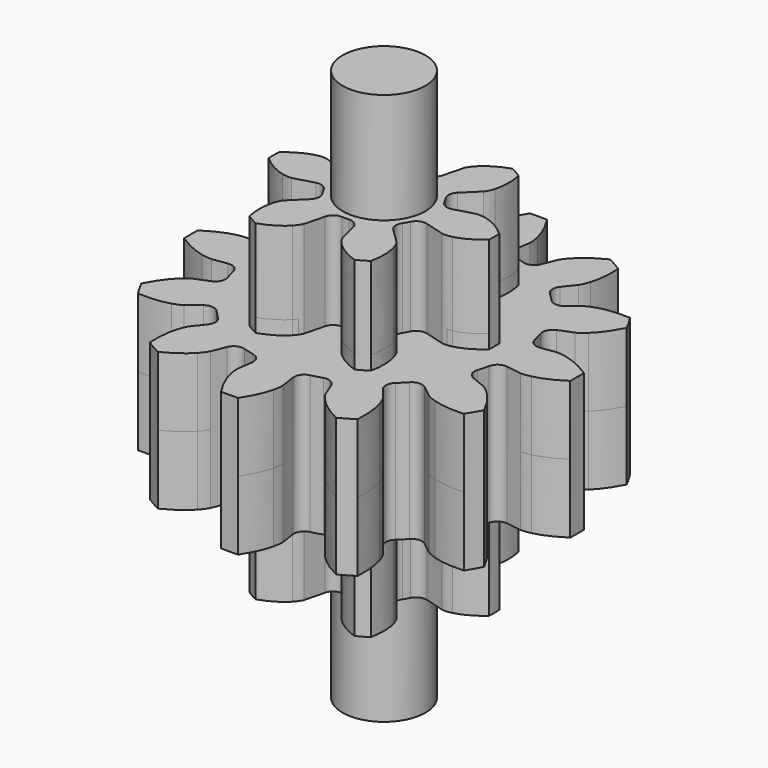
from build123d import *

# Parameters (mm, degrees)
PAD007_DEPTH  = 3
SKETCH016_W   = 3.079718
SKETCH016_H   = 3
SKETCH016_W_2 = 1
SKETCH016_H_2 = 10
PAD008_DEPTH  = 3
PAD009_DEPTH  = 1.25
SKETCH018_R   = 0.75
PAD010_DEPTH  = 5


with BuildPart() as part:
    # InvoluteGear001 → Pad007 (new body, symmetric)
    with BuildSketch(Plane.XY):
        with BuildLine():
            Line((1.006043, -0.285705), (1.363515, -0.38664))
            add(Edge.make_bspline(
                [(1.363515, -0.38664), (1.382622, -0.389981), (1.439701, -0.396093), (1.538721, -0.373445)],
                knots=[0, 0, 0, 0, 1, 1, 1, 1], degree=3))
            add(Edge.make_bspline(
                [(1.538721, -0.373445), (1.655028, -0.34513), (1.816791, -0.276694), (1.997727, -0.116892)],
                knots=[0, 0, 0, 0, 1, 1, 1, 1], degree=3))
            ThreePointArc((1.997727, -0.116892), (2.001146, 0), (1.997727, 0.116892))
            add(Edge.make_bspline(
                [(1.997727, 0.116892), (1.816791, 0.276694), (1.655028, 0.34513), (1.538721, 0.373445)],
                knots=[0, 0, 0, 0, 1, 1, 1, 1], degree=3))
            add(Edge.make_bspline(
                [(1.538721, 0.373445), (1.439701, 0.396093), (1.382622, 0.389981), (1.363515, 0.38664)],
                knots=[0, 0, 0, 0, 1, 1, 1, 1], degree=3))
            Line((1.363515, 0.38664), (1.006043, 0.285705))
            ThreePointArc((1.006043, 0.285705), (0.87945, 0.294376), (0.787367, 0.381679))
            ThreePointArc((0.787367, 0.381679), (0.757772, 0.4375), (0.724227, 0.49104))
            ThreePointArc((0.724227, 0.49104), (0.694661, 0.614438), (0.750449, 0.728406))
            Line((0.750449, 0.728406), (1.016597, 0.987519))
            add(Edge.make_bspline(
                [(1.016597, 0.987519), (1.029044, 1.002395), (1.062877, 1.048771), (1.092773, 1.145849)],
                knots=[0, 0, 0, 0, 1, 1, 1, 1], degree=3))
            add(Edge.make_bspline(
                [(1.092773, 1.145849), (1.126405, 1.260731), (1.148019, 1.43504), (1.100095, 1.671636)],
                knots=[0, 0, 0, 0, 1, 1, 1, 1], degree=3))
            ThreePointArc((1.100095, 1.671636), (1.000573, 1.733043), (0.897632, 1.788529))
            add(Edge.make_bspline(
                [(0.897632, 1.788529), (0.668772, 1.711734), (0.528623, 1.605861), (0.445948, 1.519294)],
                knots=[0, 0, 0, 0, 1, 1, 1, 1], degree=3))
            add(Edge.make_bspline(
                [(0.445948, 1.519294), (0.376823, 1.444864), (0.353577, 1.392376), (0.346918, 1.374158)],
                knots=[0, 0, 0, 0, 1, 1, 1, 1], degree=3))
            Line((0.346918, 1.374158), (0.255594, 1.014111))
            ThreePointArc((0.255594, 1.014111), (0.184788, 0.908813), (0.06314, 0.872719))
            ThreePointArc((0.06314, 0.872719), (0, 0.875), (-0.06314, 0.872719))
            ThreePointArc((-0.06314, 0.872719), (-0.184788, 0.908813), (-0.255594, 1.014111))
            Line((-0.255594, 1.014111), (-0.346918, 1.374158))
            add(Edge.make_bspline(
                [(-0.346918, 1.374158), (-0.353577, 1.392376), (-0.376823, 1.444864), (-0.445948, 1.519294)],
                knots=[0, 0, 0, 0, 1, 1, 1, 1], degree=3))
            add(Edge.make_bspline(
                [(-0.445948, 1.519294), (-0.528623, 1.605861), (-0.668772, 1.711734), (-0.897632, 1.788529)],
                knots=[0, 0, 0, 0, 1, 1, 1, 1], degree=3))
            ThreePointArc((-0.897632, 1.788529), (-1.000573, 1.733043), (-1.100095, 1.671636))
            add(Edge.make_bspline(
                [(-1.100095, 1.671636), (-1.148019, 1.43504), (-1.126405, 1.260731), (-1.092773, 1.145849)],
                knots=[0, 0, 0, 0, 1, 1, 1, 1], degree=3))
            add(Edge.make_bspline(
                [(-1.092773, 1.145849), (-1.062877, 1.048771), (-1.029044, 1.002395), (-1.016597, 0.987519)],
                knots=[0, 0, 0, 0, 1, 1, 1, 1], degree=3))
            Line((-1.016597, 0.987519), (-0.750449, 0.728406))
            ThreePointArc((-0.750449, 0.728406), (-0.694661, 0.614438), (-0.724227, 0.49104))
            ThreePointArc((-0.724227, 0.49104), (-0.757772, 0.4375), (-0.787367, 0.381679))
            ThreePointArc((-0.787367, 0.381679), (-0.87945, 0.294376), (-1.006043, 0.285705))
            Line((-1.006043, 0.285705), (-1.363515, 0.38664))
            add(Edge.make_bspline(
                [(-1.363515, 0.38664), (-1.382622, 0.389981), (-1.439701, 0.396093), (-1.538721, 0.373445)],
                knots=[0, 0, 0, 0, 1, 1, 1, 1], degree=3))
            add(Edge.make_bspline(
                [(-1.538721, 0.373445), (-1.655028, 0.34513), (-1.816791, 0.276694), (-1.997727, 0.116892)],
                knots=[0, 0, 0, 0, 1, 1, 1, 1], degree=3))
            ThreePointArc((-1.997727, 0.116892), (-2.001146, 0), (-1.997727, -0.116892))
            add(Edge.make_bspline(
                [(-1.997727, -0.116892), (-1.816791, -0.276694), (-1.655028, -0.34513), (-1.538721, -0.373445)],
                knots=[0, 0, 0, 0, 1, 1, 1, 1], degree=3))
            add(Edge.make_bspline(
                [(-1.538721, -0.373445), (-1.439701, -0.396093), (-1.382622, -0.389981), (-1.363515, -0.38664)],
                knots=[0, 0, 0, 0, 1, 1, 1, 1], degree=3))
            Line((-1.363515, -0.38664), (-1.006043, -0.285705))
            ThreePointArc((-1.006043, -0.285705), (-0.87945, -0.294376), (-0.787367, -0.381679))
            ThreePointArc((-0.787367, -0.381679), (-0.757772, -0.4375), (-0.724227, -0.49104))
            ThreePointArc((-0.724227, -0.49104), (-0.694661, -0.614438), (-0.750449, -0.728406))
            Line((-0.750449, -0.728406), (-1.016597, -0.987519))
            add(Edge.make_bspline(
                [(-1.016597, -0.987519), (-1.029044, -1.002395), (-1.062877, -1.048771), (-1.092773, -1.145849)],
                knots=[0, 0, 0, 0, 1, 1, 1, 1], degree=3))
            add(Edge.make_bspline(
                [(-1.092773, -1.145849), (-1.126405, -1.260731), (-1.148019, -1.43504), (-1.100095, -1.671636)],
                knots=[0, 0, 0, 0, 1, 1, 1, 1], degree=3))
            ThreePointArc((-1.100095, -1.671636), (-1.000573, -1.733043), (-0.897632, -1.788529))
            add(Edge.make_bspline(
                [(-0.897632, -1.788529), (-0.668772, -1.711734), (-0.528623, -1.605861), (-0.445948, -1.519294)],
                knots=[0, 0, 0, 0, 1, 1, 1, 1], degree=3))
            add(Edge.make_bspline(
                [(-0.445948, -1.519294), (-0.376823, -1.444864), (-0.353577, -1.392376), (-0.346918, -1.374158)],
                knots=[0, 0, 0, 0, 1, 1, 1, 1], degree=3))
            Line((-0.346918, -1.374158), (-0.255594, -1.014111))
            ThreePointArc((-0.255594, -1.014111), (-0.184788, -0.908813), (-0.06314, -0.872719))
            ThreePointArc((-0.06314, -0.872719), (0, -0.875), (0.06314, -0.872719))
            ThreePointArc((0.06314, -0.872719), (0.184788, -0.908813), (0.255594, -1.014111))
            Line((0.255594, -1.014111), (0.346918, -1.374158))
            add(Edge.make_bspline(
                [(0.346918, -1.374158), (0.353577, -1.392376), (0.376823, -1.444864), (0.445948, -1.519294)],
                knots=[0, 0, 0, 0, 1, 1, 1, 1], degree=3))
            add(Edge.make_bspline(
                [(0.445948, -1.519294), (0.528623, -1.605861), (0.668772, -1.711734), (0.897632, -1.788529)],
                knots=[0, 0, 0, 0, 1, 1, 1, 1], degree=3))
            ThreePointArc((0.897632, -1.788529), (1.000573, -1.733043), (1.100095, -1.671636))
            add(Edge.make_bspline(
                [(1.100095, -1.671636), (1.148019, -1.43504), (1.126405, -1.260731), (1.092773, -1.145849)],
                knots=[0, 0, 0, 0, 1, 1, 1, 1], degree=3))
            add(Edge.make_bspline(
                [(1.092773, -1.145849), (1.062877, -1.048771), (1.029044, -1.002395), (1.016597, -0.987519)],
                knots=[0, 0, 0, 0, 1, 1, 1, 1], degree=3))
            Line((1.016597, -0.987519), (0.750449, -0.728406))
            ThreePointArc((0.750449, -0.728406), (0.694661, -0.614438), (0.724227, -0.49104))
            ThreePointArc((0.724227, -0.49104), (0.757772, -0.4375), (0.787367, -0.381679))
            ThreePointArc((0.787367, -0.381679), (0.87945, -0.294376), (1.006043, -0.285705))
        make_face()
    extrude(amount=PAD007_DEPTH, both=True)

    # Sketch016 → Groove002 (revolve, cut)
    with BuildSketch(Plane.XZ):
        with Locations((-3.039859, 0)):
            Rectangle(SKETCH016_W, SKETCH016_H)
        with Locations((-0.5, 0)):
            Rectangle(SKETCH016_W_2, SKETCH016_H_2)
    revolve(axis=Axis((0, 0, 0), (0, 0, 1)), mode=Mode.SUBTRACT)

    # InvoluteGear001 → Pad008 (join, symmetric)
    with BuildSketch(Plane.XY):
        with BuildLine():
            Line((1.006043, -0.285705), (1.363515, -0.38664))
            add(Edge.make_bspline(
                [(1.363515, -0.38664), (1.382622, -0.389981), (1.439701, -0.396093), (1.538721, -0.373445)],
                knots=[0, 0, 0, 0, 1, 1, 1, 1], degree=3))
            add(Edge.make_bspline(
                [(1.538721, -0.373445), (1.655028, -0.34513), (1.816791, -0.276694), (1.997727, -0.116892)],
                knots=[0, 0, 0, 0, 1, 1, 1, 1], degree=3))
            ThreePointArc((1.997727, -0.116892), (2.001146, 0), (1.997727, 0.116892))
            add(Edge.make_bspline(
                [(1.997727, 0.116892), (1.816791, 0.276694), (1.655028, 0.34513), (1.538721, 0.373445)],
                knots=[0, 0, 0, 0, 1, 1, 1, 1], degree=3))
            add(Edge.make_bspline(
                [(1.538721, 0.373445), (1.439701, 0.396093), (1.382622, 0.389981), (1.363515, 0.38664)],
                knots=[0, 0, 0, 0, 1, 1, 1, 1], degree=3))
            Line((1.363515, 0.38664), (1.006043, 0.285705))
            ThreePointArc((1.006043, 0.285705), (0.87945, 0.294376), (0.787367, 0.381679))
            ThreePointArc((0.787367, 0.381679), (0.757772, 0.4375), (0.724227, 0.49104))
            ThreePointArc((0.724227, 0.49104), (0.694661, 0.614438), (0.750449, 0.728406))
            Line((0.750449, 0.728406), (1.016597, 0.987519))
            add(Edge.make_bspline(
                [(1.016597, 0.987519), (1.029044, 1.002395), (1.062877, 1.048771), (1.092773, 1.145849)],
                knots=[0, 0, 0, 0, 1, 1, 1, 1], degree=3))
            add(Edge.make_bspline(
                [(1.092773, 1.145849), (1.126405, 1.260731), (1.148019, 1.43504), (1.100095, 1.671636)],
                knots=[0, 0, 0, 0, 1, 1, 1, 1], degree=3))
            ThreePointArc((1.100095, 1.671636), (1.000573, 1.733043), (0.897632, 1.788529))
            add(Edge.make_bspline(
                [(0.897632, 1.788529), (0.668772, 1.711734), (0.528623, 1.605861), (0.445948, 1.519294)],
                knots=[0, 0, 0, 0, 1, 1, 1, 1], degree=3))
            add(Edge.make_bspline(
                [(0.445948, 1.519294), (0.376823, 1.444864), (0.353577, 1.392376), (0.346918, 1.374158)],
                knots=[0, 0, 0, 0, 1, 1, 1, 1], degree=3))
            Line((0.346918, 1.374158), (0.255594, 1.014111))
            ThreePointArc((0.255594, 1.014111), (0.184788, 0.908813), (0.06314, 0.872719))
            ThreePointArc((0.06314, 0.872719), (0, 0.875), (-0.06314, 0.872719))
            ThreePointArc((-0.06314, 0.872719), (-0.184788, 0.908813), (-0.255594, 1.014111))
            Line((-0.255594, 1.014111), (-0.346918, 1.374158))
            add(Edge.make_bspline(
                [(-0.346918, 1.374158), (-0.353577, 1.392376), (-0.376823, 1.444864), (-0.445948, 1.519294)],
                knots=[0, 0, 0, 0, 1, 1, 1, 1], degree=3))
            add(Edge.make_bspline(
                [(-0.445948, 1.519294), (-0.528623, 1.605861), (-0.668772, 1.711734), (-0.897632, 1.788529)],
                knots=[0, 0, 0, 0, 1, 1, 1, 1], degree=3))
            ThreePointArc((-0.897632, 1.788529), (-1.000573, 1.733043), (-1.100095, 1.671636))
            add(Edge.make_bspline(
                [(-1.100095, 1.671636), (-1.148019, 1.43504), (-1.126405, 1.260731), (-1.092773, 1.145849)],
                knots=[0, 0, 0, 0, 1, 1, 1, 1], degree=3))
            add(Edge.make_bspline(
                [(-1.092773, 1.145849), (-1.062877, 1.048771), (-1.029044, 1.002395), (-1.016597, 0.987519)],
                knots=[0, 0, 0, 0, 1, 1, 1, 1], degree=3))
            Line((-1.016597, 0.987519), (-0.750449, 0.728406))
            ThreePointArc((-0.750449, 0.728406), (-0.694661, 0.614438), (-0.724227, 0.49104))
            ThreePointArc((-0.724227, 0.49104), (-0.757772, 0.4375), (-0.787367, 0.381679))
            ThreePointArc((-0.787367, 0.381679), (-0.87945, 0.294376), (-1.006043, 0.285705))
            Line((-1.006043, 0.285705), (-1.363515, 0.38664))
            add(Edge.make_bspline(
                [(-1.363515, 0.38664), (-1.382622, 0.389981), (-1.439701, 0.396093), (-1.538721, 0.373445)],
                knots=[0, 0, 0, 0, 1, 1, 1, 1], degree=3))
            add(Edge.make_bspline(
                [(-1.538721, 0.373445), (-1.655028, 0.34513), (-1.816791, 0.276694), (-1.997727, 0.116892)],
                knots=[0, 0, 0, 0, 1, 1, 1, 1], degree=3))
            ThreePointArc((-1.997727, 0.116892), (-2.001146, 0), (-1.997727, -0.116892))
            add(Edge.make_bspline(
                [(-1.997727, -0.116892), (-1.816791, -0.276694), (-1.655028, -0.34513), (-1.538721, -0.373445)],
                knots=[0, 0, 0, 0, 1, 1, 1, 1], degree=3))
            add(Edge.make_bspline(
                [(-1.538721, -0.373445), (-1.439701, -0.396093), (-1.382622, -0.389981), (-1.363515, -0.38664)],
                knots=[0, 0, 0, 0, 1, 1, 1, 1], degree=3))
            Line((-1.363515, -0.38664), (-1.006043, -0.285705))
            ThreePointArc((-1.006043, -0.285705), (-0.87945, -0.294376), (-0.787367, -0.381679))
            ThreePointArc((-0.787367, -0.381679), (-0.757772, -0.4375), (-0.724227, -0.49104))
            ThreePointArc((-0.724227, -0.49104), (-0.694661, -0.614438), (-0.750449, -0.728406))
            Line((-0.750449, -0.728406), (-1.016597, -0.987519))
            add(Edge.make_bspline(
                [(-1.016597, -0.987519), (-1.029044, -1.002395), (-1.062877, -1.048771), (-1.092773, -1.145849)],
                knots=[0, 0, 0, 0, 1, 1, 1, 1], degree=3))
            add(Edge.make_bspline(
                [(-1.092773, -1.145849), (-1.126405, -1.260731), (-1.148019, -1.43504), (-1.100095, -1.671636)],
                knots=[0, 0, 0, 0, 1, 1, 1, 1], degree=3))
            ThreePointArc((-1.100095, -1.671636), (-1.000573, -1.733043), (-0.897632, -1.788529))
            add(Edge.make_bspline(
                [(-0.897632, -1.788529), (-0.668772, -1.711734), (-0.528623, -1.605861), (-0.445948, -1.519294)],
                knots=[0, 0, 0, 0, 1, 1, 1, 1], degree=3))
            add(Edge.make_bspline(
                [(-0.445948, -1.519294), (-0.376823, -1.444864), (-0.353577, -1.392376), (-0.346918, -1.374158)],
                knots=[0, 0, 0, 0, 1, 1, 1, 1], degree=3))
            Line((-0.346918, -1.374158), (-0.255594, -1.014111))
            ThreePointArc((-0.255594, -1.014111), (-0.184788, -0.908813), (-0.06314, -0.872719))
            ThreePointArc((-0.06314, -0.872719), (0, -0.875), (0.06314, -0.872719))
            ThreePointArc((0.06314, -0.872719), (0.184788, -0.908813), (0.255594, -1.014111))
            Line((0.255594, -1.014111), (0.346918, -1.374158))
            add(Edge.make_bspline(
                [(0.346918, -1.374158), (0.353577, -1.392376), (0.376823, -1.444864), (0.445948, -1.519294)],
                knots=[0, 0, 0, 0, 1, 1, 1, 1], degree=3))
            add(Edge.make_bspline(
                [(0.445948, -1.519294), (0.528623, -1.605861), (0.668772, -1.711734), (0.897632, -1.788529)],
                knots=[0, 0, 0, 0, 1, 1, 1, 1], degree=3))
            ThreePointArc((0.897632, -1.788529), (1.000573, -1.733043), (1.100095, -1.671636))
            add(Edge.make_bspline(
                [(1.100095, -1.671636), (1.148019, -1.43504), (1.126405, -1.260731), (1.092773, -1.145849)],
                knots=[0, 0, 0, 0, 1, 1, 1, 1], degree=3))
            add(Edge.make_bspline(
                [(1.092773, -1.145849), (1.062877, -1.048771), (1.029044, -1.002395), (1.016597, -0.987519)],
                knots=[0, 0, 0, 0, 1, 1, 1, 1], degree=3))
            Line((1.016597, -0.987519), (0.750449, -0.728406))
            ThreePointArc((0.750449, -0.728406), (0.694661, -0.614438), (0.724227, -0.49104))
            ThreePointArc((0.724227, -0.49104), (0.757772, -0.4375), (0.787367, -0.381679))
            ThreePointArc((0.787367, -0.381679), (0.87945, -0.294376), (1.006043, -0.285705))
        make_face()
    extrude(amount=PAD008_DEPTH, both=True)

    # InvoluteGear002 → Pad009 (join, symmetric)
    with BuildSketch(Plane.XY):
        with BuildLine():
            Line((2.528514, -0.371303), (2.797114, -0.410332))
            add(Edge.make_bspline(
                [(2.797114, -0.410332), (2.817791, -0.411804), (2.879869, -0.41318), (2.984231, -0.389418)],
                knots=[0, 0, 0, 0, 1, 1, 1, 1], degree=3))
            add(Edge.make_bspline(
                [(2.984231, -0.389418), (3.108457, -0.360405), (3.285345, -0.29598), (3.497257, -0.154878)],
                knots=[0, 0, 0, 0, 1, 1, 1, 1], degree=3))
            ThreePointArc((3.497257, -0.154878), (3.500685, 0), (3.497257, 0.154878))
            add(Edge.make_bspline(
                [(3.497257, 0.154878), (3.285345, 0.29598), (3.108457, 0.360405), (2.984231, 0.389418)],
                knots=[0, 0, 0, 0, 1, 1, 1, 1], degree=3))
            add(Edge.make_bspline(
                [(2.984231, 0.389418), (2.879869, 0.41318), (2.817791, 0.411804), (2.797114, 0.410332)],
                knots=[0, 0, 0, 0, 1, 1, 1, 1], degree=3))
            Line((2.797114, 0.410332), (2.528514, 0.371303))
            ThreePointArc((2.528514, 0.371303), (2.395133, 0.402247), (2.318354, 0.515617))
            ThreePointArc((2.318354, 0.515617), (2.294074, 0.614695), (2.265562, 0.712639))
            ThreePointArc((2.265562, 0.712639), (2.27537, 0.849211), (2.375409, 0.9427))
            Line((2.375409, 0.9427), (2.627538, 1.043199))
            add(Edge.make_bspline(
                [(2.627538, 1.043199), (2.646181, 1.052262), (2.700629, 1.08211), (2.779129, 1.154869)],
                knots=[0, 0, 0, 0, 1, 1, 1, 1], degree=3))
            add(Edge.make_bspline(
                [(2.779129, 1.154869), (2.872205, 1.242109), (2.993182, 1.386346), (3.106152, 1.6145)],
                knots=[0, 0, 0, 0, 1, 1, 1, 1], degree=3))
            ThreePointArc((3.106152, 1.6145), (3.031682, 1.750343), (2.951274, 1.882757))
            add(Edge.make_bspline(
                [(2.951274, 1.882757), (2.697202, 1.898999), (2.5118, 1.866348), (2.389711, 1.829362)],
                knots=[0, 0, 0, 0, 1, 1, 1, 1], degree=3))
            add(Edge.make_bspline(
                [(2.389711, 1.829362), (2.28745, 1.797759), (2.234376, 1.765528), (2.217206, 1.753915)],
                knots=[0, 0, 0, 0, 1, 1, 1, 1], degree=3))
            Line((2.217206, 1.753915), (2.004106, 1.585815))
            ThreePointArc((2.004106, 1.585815), (1.873123, 1.545922), (1.749945, 1.605714))
            ThreePointArc((1.749945, 1.605714), (1.679379, 1.679379), (1.605714, 1.749945))
            ThreePointArc((1.605714, 1.749945), (1.545922, 1.873123), (1.585815, 2.004106))
            Line((1.585815, 2.004106), (1.753915, 2.217206))
            add(Edge.make_bspline(
                [(1.753915, 2.217206), (1.765528, 2.234376), (1.797759, 2.28745), (1.829362, 2.389711)],
                knots=[0, 0, 0, 0, 1, 1, 1, 1], degree=3))
            add(Edge.make_bspline(
                [(1.829362, 2.389711), (1.866348, 2.5118), (1.898999, 2.697202), (1.882757, 2.951274)],
                knots=[0, 0, 0, 0, 1, 1, 1, 1], degree=3))
            ThreePointArc((1.882757, 2.951274), (1.750343, 3.031682), (1.6145, 3.106152))
            add(Edge.make_bspline(
                [(1.6145, 3.106152), (1.386346, 2.993182), (1.242109, 2.872205), (1.154869, 2.779129)],
                knots=[0, 0, 0, 0, 1, 1, 1, 1], degree=3))
            add(Edge.make_bspline(
                [(1.154869, 2.779129), (1.08211, 2.700629), (1.052262, 2.646181), (1.043199, 2.627538)],
                knots=[0, 0, 0, 0, 1, 1, 1, 1], degree=3))
            Line((1.043199, 2.627538), (0.9427, 2.375409))
            ThreePointArc((0.9427, 2.375409), (0.849211, 2.27537), (0.712639, 2.265562))
            ThreePointArc((0.712639, 2.265562), (0.614695, 2.294074), (0.515617, 2.318354))
            ThreePointArc((0.515617, 2.318354), (0.402247, 2.395133), (0.371303, 2.528514))
            Line((0.371303, 2.528514), (0.410332, 2.797114))
            add(Edge.make_bspline(
                [(0.410332, 2.797114), (0.411804, 2.817791), (0.41318, 2.879869), (0.389418, 2.984231)],
                knots=[0, 0, 0, 0, 1, 1, 1, 1], degree=3))
            add(Edge.make_bspline(
                [(0.389418, 2.984231), (0.360405, 3.108457), (0.29598, 3.285345), (0.154878, 3.497257)],
                knots=[0, 0, 0, 0, 1, 1, 1, 1], degree=3))
            ThreePointArc((0.154878, 3.497257), (0, 3.500685), (-0.154878, 3.497257))
            add(Edge.make_bspline(
                [(-0.154878, 3.497257), (-0.29598, 3.285345), (-0.360405, 3.108457), (-0.389418, 2.984231)],
                knots=[0, 0, 0, 0, 1, 1, 1, 1], degree=3))
            add(Edge.make_bspline(
                [(-0.389418, 2.984231), (-0.41318, 2.879869), (-0.411804, 2.817791), (-0.410332, 2.797114)],
                knots=[0, 0, 0, 0, 1, 1, 1, 1], degree=3))
            Line((-0.410332, 2.797114), (-0.371303, 2.528514))
            ThreePointArc((-0.371303, 2.528514), (-0.402247, 2.395133), (-0.515617, 2.318354))
            ThreePointArc((-0.515617, 2.318354), (-0.614695, 2.294074), (-0.712639, 2.265562))
            ThreePointArc((-0.712639, 2.265562), (-0.849211, 2.27537), (-0.9427, 2.375409))
            Line((-0.9427, 2.375409), (-1.043199, 2.627538))
            add(Edge.make_bspline(
                [(-1.043199, 2.627538), (-1.052262, 2.646181), (-1.08211, 2.700629), (-1.154869, 2.779129)],
                knots=[0, 0, 0, 0, 1, 1, 1, 1], degree=3))
            add(Edge.make_bspline(
                [(-1.154869, 2.779129), (-1.242109, 2.872205), (-1.386346, 2.993182), (-1.6145, 3.106152)],
                knots=[0, 0, 0, 0, 1, 1, 1, 1], degree=3))
            ThreePointArc((-1.6145, 3.106152), (-1.750343, 3.031682), (-1.882757, 2.951274))
            add(Edge.make_bspline(
                [(-1.882757, 2.951274), (-1.898999, 2.697202), (-1.866348, 2.5118), (-1.829362, 2.389711)],
                knots=[0, 0, 0, 0, 1, 1, 1, 1], degree=3))
            add(Edge.make_bspline(
                [(-1.829362, 2.389711), (-1.797759, 2.28745), (-1.765528, 2.234376), (-1.753915, 2.217206)],
                knots=[0, 0, 0, 0, 1, 1, 1, 1], degree=3))
            Line((-1.753915, 2.217206), (-1.585815, 2.004106))
            ThreePointArc((-1.585815, 2.004106), (-1.545922, 1.873123), (-1.605714, 1.749945))
            ThreePointArc((-1.605714, 1.749945), (-1.679379, 1.679379), (-1.749945, 1.605714))
            ThreePointArc((-1.749945, 1.605714), (-1.873123, 1.545922), (-2.004106, 1.585815))
            Line((-2.004106, 1.585815), (-2.217206, 1.753915))
            add(Edge.make_bspline(
                [(-2.217206, 1.753915), (-2.234376, 1.765528), (-2.28745, 1.797759), (-2.389711, 1.829362)],
                knots=[0, 0, 0, 0, 1, 1, 1, 1], degree=3))
            add(Edge.make_bspline(
                [(-2.389711, 1.829362), (-2.5118, 1.866348), (-2.697202, 1.898999), (-2.951274, 1.882757)],
                knots=[0, 0, 0, 0, 1, 1, 1, 1], degree=3))
            ThreePointArc((-2.951274, 1.882757), (-3.031682, 1.750343), (-3.106152, 1.6145))
            add(Edge.make_bspline(
                [(-3.106152, 1.6145), (-2.993182, 1.386346), (-2.872205, 1.242109), (-2.779129, 1.154869)],
                knots=[0, 0, 0, 0, 1, 1, 1, 1], degree=3))
            add(Edge.make_bspline(
                [(-2.779129, 1.154869), (-2.700629, 1.08211), (-2.646181, 1.052262), (-2.627538, 1.043199)],
                knots=[0, 0, 0, 0, 1, 1, 1, 1], degree=3))
            Line((-2.627538, 1.043199), (-2.375409, 0.9427))
            ThreePointArc((-2.375409, 0.9427), (-2.27537, 0.849211), (-2.265562, 0.712639))
            ThreePointArc((-2.265562, 0.712639), (-2.294074, 0.614695), (-2.318354, 0.515617))
            ThreePointArc((-2.318354, 0.515617), (-2.395133, 0.402247), (-2.528514, 0.371303))
            Line((-2.528514, 0.371303), (-2.797114, 0.410332))
            add(Edge.make_bspline(
                [(-2.797114, 0.410332), (-2.817791, 0.411804), (-2.879869, 0.41318), (-2.984231, 0.389418)],
                knots=[0, 0, 0, 0, 1, 1, 1, 1], degree=3))
            add(Edge.make_bspline(
                [(-2.984231, 0.389418), (-3.108457, 0.360405), (-3.285345, 0.29598), (-3.497257, 0.154878)],
                knots=[0, 0, 0, 0, 1, 1, 1, 1], degree=3))
            ThreePointArc((-3.497257, 0.154878), (-3.500685, 0), (-3.497257, -0.154878))
            add(Edge.make_bspline(
                [(-3.497257, -0.154878), (-3.285345, -0.29598), (-3.108457, -0.360405), (-2.984231, -0.389418)],
                knots=[0, 0, 0, 0, 1, 1, 1, 1], degree=3))
            add(Edge.make_bspline(
                [(-2.984231, -0.389418), (-2.879869, -0.41318), (-2.817791, -0.411804), (-2.797114, -0.410332)],
                knots=[0, 0, 0, 0, 1, 1, 1, 1], degree=3))
            Line((-2.797114, -0.410332), (-2.528514, -0.371303))
            ThreePointArc((-2.528514, -0.371303), (-2.395133, -0.402247), (-2.318354, -0.515617))
            ThreePointArc((-2.318354, -0.515617), (-2.294074, -0.614695), (-2.265562, -0.712639))
            ThreePointArc((-2.265562, -0.712639), (-2.27537, -0.849211), (-2.375409, -0.9427))
            Line((-2.375409, -0.9427), (-2.627538, -1.043199))
            add(Edge.make_bspline(
                [(-2.627538, -1.043199), (-2.646181, -1.052262), (-2.700629, -1.08211), (-2.779129, -1.154869)],
                knots=[0, 0, 0, 0, 1, 1, 1, 1], degree=3))
            add(Edge.make_bspline(
                [(-2.779129, -1.154869), (-2.872205, -1.242109), (-2.993182, -1.386346), (-3.106152, -1.6145)],
                knots=[0, 0, 0, 0, 1, 1, 1, 1], degree=3))
            ThreePointArc((-3.106152, -1.6145), (-3.031682, -1.750343), (-2.951274, -1.882757))
            add(Edge.make_bspline(
                [(-2.951274, -1.882757), (-2.697202, -1.898999), (-2.5118, -1.866348), (-2.389711, -1.829362)],
                knots=[0, 0, 0, 0, 1, 1, 1, 1], degree=3))
            add(Edge.make_bspline(
                [(-2.389711, -1.829362), (-2.28745, -1.797759), (-2.234376, -1.765528), (-2.217206, -1.753915)],
                knots=[0, 0, 0, 0, 1, 1, 1, 1], degree=3))
            Line((-2.217206, -1.753915), (-2.004106, -1.585815))
            ThreePointArc((-2.004106, -1.585815), (-1.873123, -1.545922), (-1.749945, -1.605714))
            ThreePointArc((-1.749945, -1.605714), (-1.679379, -1.679379), (-1.605714, -1.749945))
            ThreePointArc((-1.605714, -1.749945), (-1.545922, -1.873123), (-1.585815, -2.004106))
            Line((-1.585815, -2.004106), (-1.753915, -2.217206))
            add(Edge.make_bspline(
                [(-1.753915, -2.217206), (-1.765528, -2.234376), (-1.797759, -2.28745), (-1.829362, -2.389711)],
                knots=[0, 0, 0, 0, 1, 1, 1, 1], degree=3))
            add(Edge.make_bspline(
                [(-1.829362, -2.389711), (-1.866348, -2.5118), (-1.898999, -2.697202), (-1.882757, -2.951274)],
                knots=[0, 0, 0, 0, 1, 1, 1, 1], degree=3))
            ThreePointArc((-1.882757, -2.951274), (-1.750343, -3.031682), (-1.6145, -3.106152))
            add(Edge.make_bspline(
                [(-1.6145, -3.106152), (-1.386346, -2.993182), (-1.242109, -2.872205), (-1.154869, -2.779129)],
                knots=[0, 0, 0, 0, 1, 1, 1, 1], degree=3))
            add(Edge.make_bspline(
                [(-1.154869, -2.779129), (-1.08211, -2.700629), (-1.052262, -2.646181), (-1.043199, -2.627538)],
                knots=[0, 0, 0, 0, 1, 1, 1, 1], degree=3))
            Line((-1.043199, -2.627538), (-0.9427, -2.375409))
            ThreePointArc((-0.9427, -2.375409), (-0.849211, -2.27537), (-0.712639, -2.265562))
            ThreePointArc((-0.712639, -2.265562), (-0.614695, -2.294074), (-0.515617, -2.318354))
            ThreePointArc((-0.515617, -2.318354), (-0.402247, -2.395133), (-0.371303, -2.528514))
            Line((-0.371303, -2.528514), (-0.410332, -2.797114))
            add(Edge.make_bspline(
                [(-0.410332, -2.797114), (-0.411804, -2.817791), (-0.41318, -2.879869), (-0.389418, -2.984231)],
                knots=[0, 0, 0, 0, 1, 1, 1, 1], degree=3))
            add(Edge.make_bspline(
                [(-0.389418, -2.984231), (-0.360405, -3.108457), (-0.29598, -3.285345), (-0.154878, -3.497257)],
                knots=[0, 0, 0, 0, 1, 1, 1, 1], degree=3))
            ThreePointArc((-0.154878, -3.497257), (0, -3.500685), (0.154878, -3.497257))
            add(Edge.make_bspline(
                [(0.154878, -3.497257), (0.29598, -3.285345), (0.360405, -3.108457), (0.389418, -2.984231)],
                knots=[0, 0, 0, 0, 1, 1, 1, 1], degree=3))
            add(Edge.make_bspline(
                [(0.389418, -2.984231), (0.41318, -2.879869), (0.411804, -2.817791), (0.410332, -2.797114)],
                knots=[0, 0, 0, 0, 1, 1, 1, 1], degree=3))
            Line((0.410332, -2.797114), (0.371303, -2.528514))
            ThreePointArc((0.371303, -2.528514), (0.402247, -2.395133), (0.515617, -2.318354))
            ThreePointArc((0.515617, -2.318354), (0.614695, -2.294074), (0.712639, -2.265562))
            ThreePointArc((0.712639, -2.265562), (0.849211, -2.27537), (0.9427, -2.375409))
            Line((0.9427, -2.375409), (1.043199, -2.627538))
            add(Edge.make_bspline(
                [(1.043199, -2.627538), (1.052262, -2.646181), (1.08211, -2.700629), (1.154869, -2.779129)],
                knots=[0, 0, 0, 0, 1, 1, 1, 1], degree=3))
            add(Edge.make_bspline(
                [(1.154869, -2.779129), (1.242109, -2.872205), (1.386346, -2.993182), (1.6145, -3.106152)],
                knots=[0, 0, 0, 0, 1, 1, 1, 1], degree=3))
            ThreePointArc((1.6145, -3.106152), (1.750343, -3.031682), (1.882757, -2.951274))
            add(Edge.make_bspline(
                [(1.882757, -2.951274), (1.898999, -2.697202), (1.866348, -2.5118), (1.829362, -2.389711)],
                knots=[0, 0, 0, 0, 1, 1, 1, 1], degree=3))
            add(Edge.make_bspline(
                [(1.829362, -2.389711), (1.797759, -2.28745), (1.765528, -2.234376), (1.753915, -2.217206)],
                knots=[0, 0, 0, 0, 1, 1, 1, 1], degree=3))
            Line((1.753915, -2.217206), (1.585815, -2.004106))
            ThreePointArc((1.585815, -2.004106), (1.545922, -1.873123), (1.605714, -1.749945))
            ThreePointArc((1.605714, -1.749945), (1.679379, -1.679379), (1.749945, -1.605714))
            ThreePointArc((1.749945, -1.605714), (1.873123, -1.545922), (2.004106, -1.585815))
            Line((2.004106, -1.585815), (2.217206, -1.753915))
            add(Edge.make_bspline(
                [(2.217206, -1.753915), (2.234376, -1.765528), (2.28745, -1.797759), (2.389711, -1.829362)],
                knots=[0, 0, 0, 0, 1, 1, 1, 1], degree=3))
            add(Edge.make_bspline(
                [(2.389711, -1.829362), (2.5118, -1.866348), (2.697202, -1.898999), (2.951274, -1.882757)],
                knots=[0, 0, 0, 0, 1, 1, 1, 1], degree=3))
            ThreePointArc((2.951274, -1.882757), (3.031682, -1.750343), (3.106152, -1.6145))
            add(Edge.make_bspline(
                [(3.106152, -1.6145), (2.993182, -1.386346), (2.872205, -1.242109), (2.779129, -1.154869)],
                knots=[0, 0, 0, 0, 1, 1, 1, 1], degree=3))
            add(Edge.make_bspline(
                [(2.779129, -1.154869), (2.700629, -1.08211), (2.646181, -1.052262), (2.627538, -1.043199)],
                knots=[0, 0, 0, 0, 1, 1, 1, 1], degree=3))
            Line((2.627538, -1.043199), (2.375409, -0.9427))
            ThreePointArc((2.375409, -0.9427), (2.27537, -0.849211), (2.265562, -0.712639))
            ThreePointArc((2.265562, -0.712639), (2.294074, -0.614695), (2.318354, -0.515617))
            ThreePointArc((2.318354, -0.515617), (2.395133, -0.402247), (2.528514, -0.371303))
        make_face()
    extrude(amount=PAD009_DEPTH, both=True)

    # Sketch018 → Pad010 (join, symmetric)
    with BuildSketch(Plane.XY):
        Circle(SKETCH018_R)
    extrude(amount=PAD010_DEPTH, both=True)


with BuildPart() as part_1:
    # Body006 placement: moved
    add(part.part.moved(Location((-5, 0, 0))))


solid = part_1.part
